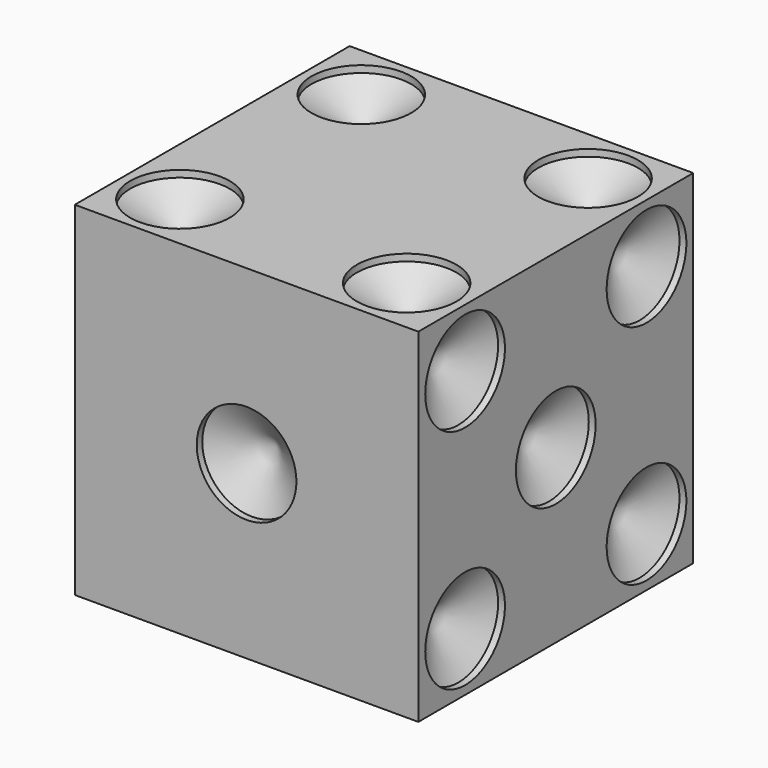
from build123d import *

# Parameters (mm, degrees)
F0_W          = 12.7
F0_H          = 12.7
F1_DEPTH      = 6.35
F1_DEPTH_BACK = 6.35
F8_D          = 3.683
F8_DEPTH      = 0.254
F8_TIP        = 1.1064848299
F9_D          = 3.683
F9_DEPTH      = 0.254
F9_TIP        = 1.1064848299
F10_D         = 3.683
F10_DEPTH     = 0.254
F10_TIP       = 1.1064848299
F11_D         = 3.683
F11_DEPTH     = 0.254
F11_TIP       = 1.1064848299
F12_D         = 3.683
F12_DEPTH     = 0.254
F12_TIP       = 1.1064848299
F13_D         = 3.683
F13_DEPTH     = 0.254
F13_TIP       = 1.1064848299


with BuildPart() as f1:
    # F0 (on Top) → F1 (new body, two sides)
    with BuildSketch(Plane.XY) as f1_sk:
        Rectangle(F0_W, F0_H)
    extrude(amount=F1_DEPTH)
    extrude(f1_sk.sketch, amount=-F1_DEPTH_BACK)

    # F8
    with Locations(Plane(origin=(0, 6.35, 0), x_dir=(-1, 0, 0), z_dir=(0, 1, 0))):
        with Locations((-4.191, 4.191), (-4.191, 0), (-4.191, -4.191), (4.191, 4.191), (4.191, 0), (4.191, -4.191)):
            Hole(F8_D / 2, depth=F8_DEPTH)
            with Locations((0, 0, -(F8_DEPTH + F8_TIP / 2))):  # 118° drill point
                Cone(0, F8_D / 2, F8_TIP, mode=Mode.SUBTRACT)

    # F9
    with Locations(Plane.YZ.offset(6.35)):
        with Locations((-4.191, 4.191), (-4.191, -4.191), (4.191, 4.191), (4.191, -4.191), (0, 0)):
            Hole(F9_D / 2, depth=F9_DEPTH)
            with Locations((0, 0, -(F9_DEPTH + F9_TIP / 2))):  # 118° drill point
                Cone(0, F9_D / 2, F9_TIP, mode=Mode.SUBTRACT)

    # F10
    with Locations(Plane(origin=(-6.35, 0, 0), x_dir=(0, -1, 0), z_dir=(-1, 0, 0))):
        with Locations((4.191, 4.191), (-4.191, -4.191)):
            Hole(F10_D / 2, depth=F10_DEPTH)
            with Locations((0, 0, -(F10_DEPTH + F10_TIP / 2))):  # 118° drill point
                Cone(0, F10_D / 2, F10_TIP, mode=Mode.SUBTRACT)

    # F11
    with Locations(Plane.XY.offset(6.35)):
        with Locations((4.191, 4.191), (4.191, -4.191), (-4.191, -4.191), (-4.191, 4.191)):
            Hole(F11_D / 2, depth=F11_DEPTH)
            with Locations((0, 0, -(F11_DEPTH + F11_TIP / 2))):  # 118° drill point
                Cone(0, F11_D / 2, F11_TIP, mode=Mode.SUBTRACT)

    # F12
    with Locations(Plane(origin=(0, 0, -6.35), x_dir=(1, 0, 0), z_dir=(0, 0, -1))):
        with Locations((-4.191, 4.191), (0, 0), (4.191, -4.191)):
            Hole(F12_D / 2, depth=F12_DEPTH)
            with Locations((0, 0, -(F12_DEPTH + F12_TIP / 2))):  # 118° drill point
                Cone(0, F12_D / 2, F12_TIP, mode=Mode.SUBTRACT)

    # F13
    with Locations(Plane.XZ.offset(6.35)):
        with Locations((0, 0)):
            Hole(F13_D / 2, depth=F13_DEPTH)
            with Locations((0, 0, -(F13_DEPTH + F13_TIP / 2))):  # 118° drill point
                Cone(0, F13_D / 2, F13_TIP, mode=Mode.SUBTRACT)


solid = f1.part
